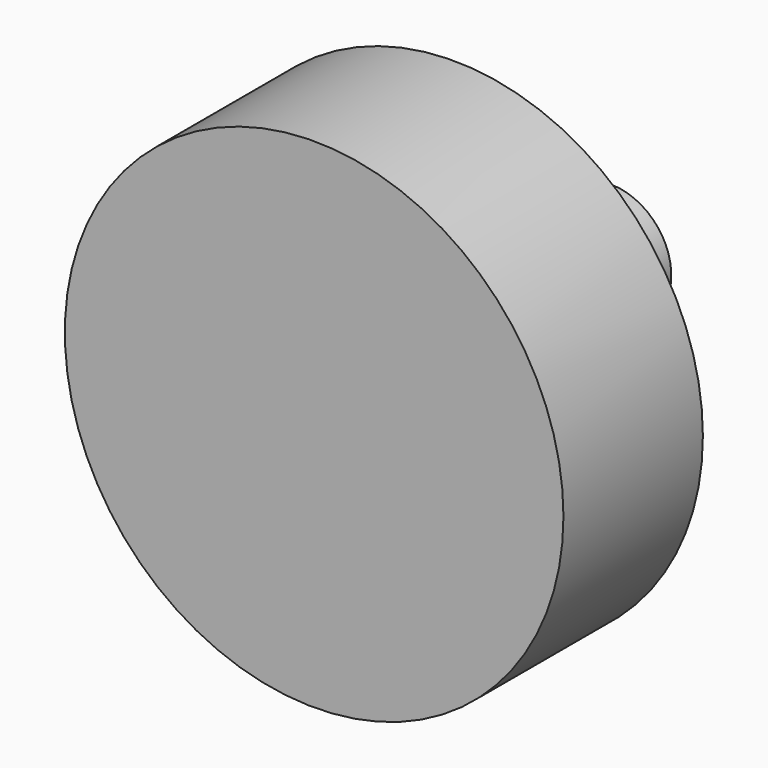
from build123d import *

# Parameters (mm, degrees)
F0_R     = 11.3
F1_DEPTH = 7.9
F3_DEPTH = 3.55
F4_R     = 2.75
F5_DEPTH = 5.35


with BuildPart() as f1:
    # F0 (on Front) → F1 (new body)
    with BuildSketch(Plane.XZ):
        Circle(F0_R)
        Circle(F0_R)
    extrude(amount=F1_DEPTH)

    # F2 (on Front) → F3 (join)
    with BuildSketch(Plane.XZ):
        Polygon((-3.75, 6.495191), (-7.5, 0), (-3.75, -6.495191), (3.75, -6.495191), (7.5, 0), (3.75, 6.495191), align=None)
    extrude(amount=-F3_DEPTH)

    # F4 (on face) → F5 (join)
    with BuildSketch(Plane(origin=(0, 3.55, 0), x_dir=(-1, 0, 0), z_dir=(0, 1, 0))):
        Circle(F4_R)
    extrude(amount=F5_DEPTH)


solid = f1.part
